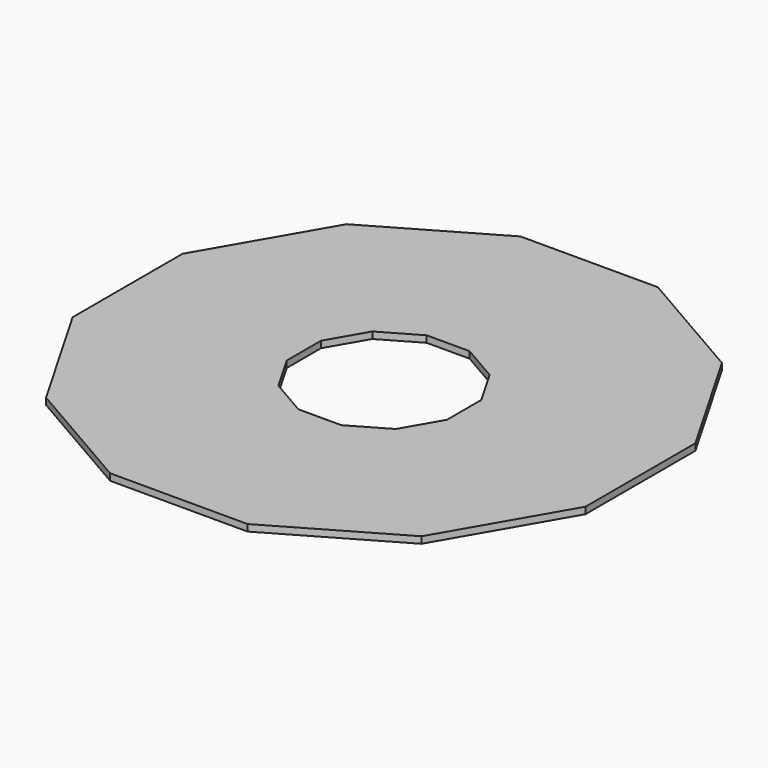
from build123d import *

# Parameters (mm, degrees)
F1_DEPTH = 1.5875
F2_DEPTH = 2


with BuildPart() as f1:
    # F0 (on Top) → F1 (new body)
    with BuildSketch(Plane.XY):
        Polygon((20.687259, 77.2059), (-20.687259, 77.2059), (-56.518642, 56.518642), (-77.2059, 20.687259), (-77.2059, -20.687259), (-56.518642, -56.518642), (-20.687259, -77.2059), (20.687259, -77.2059), (56.518642, -56.518642), (77.2059, -20.687259), (77.2059, 20.687259), (56.518642, 56.518642), align=None)
        Polygon((-17.664386, 17.664386), (-6.465614, 24.13), (6.465614, 24.13), (17.664386, 17.664386), (24.13, 6.465614), (24.13, -6.465614), (17.664386, -17.664386), (6.465614, -24.13), (-6.465614, -24.13), (-17.664386, -17.664386), (-24.13, -6.465614), (-24.13, 6.465614), align=None, mode=Mode.SUBTRACT)
    extrude(amount=F1_DEPTH)

    # F0 (on Top) → F2 (join)
    with BuildSketch(Plane.XY):
        Polygon((20.687259, 77.2059), (-20.687259, 77.2059), (-56.518642, 56.518642), (-77.2059, 20.687259), (-77.2059, -20.687259), (-56.518642, -56.518642), (-20.687259, -77.2059), (20.687259, -77.2059), (56.518642, -56.518642), (77.2059, -20.687259), (77.2059, 20.687259), (56.518642, 56.518642), align=None)
        Polygon((-17.664386, 17.664386), (-6.465614, 24.13), (6.465614, 24.13), (17.664386, 17.664386), (24.13, 6.465614), (24.13, -6.465614), (17.664386, -17.664386), (6.465614, -24.13), (-6.465614, -24.13), (-17.664386, -17.664386), (-24.13, -6.465614), (-24.13, 6.465614), align=None, mode=Mode.SUBTRACT)
    extrude(amount=F2_DEPTH)


solid = f1.part
